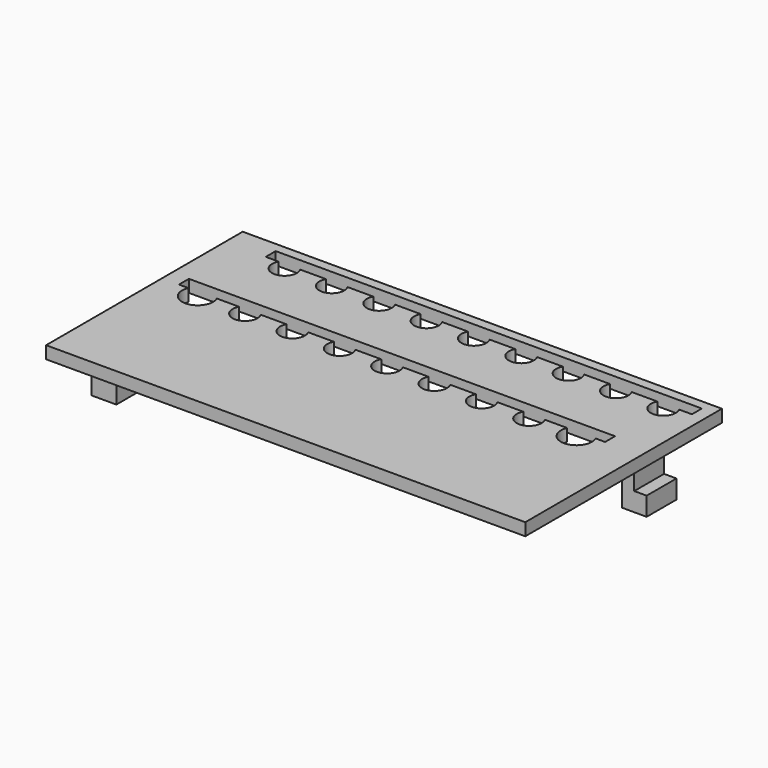
from build123d import *

# Parameters (mm, degrees)
F0_W          = 77.12
F0_H          = 39.56
F0_W_2        = 2
F0_H_2        = 6
F1_DEPTH      = 2
F2_DEPTH      = 8
F2_DEPTH_BACK = -2
F3_DEPTH      = 8
F3_DEPTH_BACK = -2
F4_W          = 6
F4_H          = 3
F5_DEPTH      = 4
F6_W          = 6
F6_H          = 3
F7_DEPTH      = 4


with BuildPart() as f1:
    # F0 (on Top) → F1 (new body)
    with BuildSketch(Plane.XY):
        with Locations((38.56, 19.78)):
            Rectangle(F0_W, F0_H)
        with Locations((4, 10.89)):
            Rectangle(F0_W_2, F0_H_2, mode=Mode.SUBTRACT)
        with BuildLine():
            ThreePointArc((15.892051, 23.32), (16.091852, 22.837638), (16.16, 22.32))
            ThreePointArc((16.16, 22.32), (13.642362, 20.388148), (12.427949, 23.32))
            Line((12.427949, 23.32), (8.831288, 23.32))
            ThreePointArc((8.831288, 23.32), (8.987266, 22.830774), (9.04, 22.32))
            ThreePointArc((9.04, 22.32), (6.029226, 19.872734), (4.248712, 23.32))
            Line((4.248712, 23.32), (2.73, 23.32))
            Line((2.73, 23.32), (2.73, 25.32))
            Line((2.73, 25.32), (71.31, 25.32))
            Line((71.31, 25.32), (71.31, 23.32))
            Line((71.31, 23.32), (69.791288, 23.32))
            ThreePointArc((69.791288, 23.32), (69.947266, 22.830774), (70, 22.32))
            ThreePointArc((70, 22.32), (66.989226, 19.872734), (65.208712, 23.32))
            Line((65.208712, 23.32), (61.612051, 23.32))
            ThreePointArc((61.612051, 23.32), (61.811852, 22.837638), (61.88, 22.32))
            ThreePointArc((61.88, 22.32), (59.362362, 20.388148), (58.147949, 23.32))
            Line((58.147949, 23.32), (53.992051, 23.32))
            ThreePointArc((53.992051, 23.32), (54.191852, 22.837638), (54.26, 22.32))
            ThreePointArc((54.26, 22.32), (51.742362, 20.388148), (50.527949, 23.32))
            Line((50.527949, 23.32), (46.372051, 23.32))
            ThreePointArc((46.372051, 23.32), (46.571852, 22.837638), (46.64, 22.32))
            ThreePointArc((46.64, 22.32), (44.122362, 20.388148), (42.907949, 23.32))
            Line((42.907949, 23.32), (38.752051, 23.32))
            ThreePointArc((38.752051, 23.32), (38.951852, 22.837638), (39.02, 22.32))
            ThreePointArc((39.02, 22.32), (36.502362, 20.388148), (35.287949, 23.32))
            Line((35.287949, 23.32), (31.132051, 23.32))
            ThreePointArc((31.132051, 23.32), (31.331852, 22.837638), (31.4, 22.32))
            ThreePointArc((31.4, 22.32), (28.882362, 20.388148), (27.667949, 23.32))
            Line((27.667949, 23.32), (23.512051, 23.32))
            ThreePointArc((23.512051, 23.32), (23.711852, 22.837638), (23.78, 22.32))
            ThreePointArc((23.78, 22.32), (21.262362, 20.388148), (20.047949, 23.32))
            Line((20.047949, 23.32), (15.892051, 23.32))
        make_face(mode=Mode.SUBTRACT)
        with Locations((73.12, 28.67)):
            Rectangle(F0_W_2, F0_H_2, mode=Mode.SUBTRACT)
        with BuildLine():
            ThreePointArc((12.082051, 36.02), (12.281852, 35.537638), (12.35, 35.02))
            ThreePointArc((12.35, 35.02), (9.832362, 33.088148), (8.617949, 36.02))
            Line((8.617949, 36.02), (6.54, 36.02))
            Line((6.54, 36.02), (6.54, 38.02))
            Line((6.54, 38.02), (75.12, 38.02))
            Line((75.12, 38.02), (75.12, 36.02))
            Line((75.12, 36.02), (73.042051, 36.02))
            ThreePointArc((73.042051, 36.02), (73.241852, 35.537638), (73.31, 35.02))
            ThreePointArc((73.31, 35.02), (70.792362, 33.088148), (69.577949, 36.02))
            Line((69.577949, 36.02), (65.422051, 36.02))
            ThreePointArc((65.422051, 36.02), (65.621852, 35.537638), (65.69, 35.02))
            ThreePointArc((65.69, 35.02), (63.172362, 33.088148), (61.957949, 36.02))
            Line((61.957949, 36.02), (57.802051, 36.02))
            ThreePointArc((57.802051, 36.02), (58.001852, 35.537638), (58.07, 35.02))
            ThreePointArc((58.07, 35.02), (55.552362, 33.088148), (54.337949, 36.02))
            Line((54.337949, 36.02), (50.182051, 36.02))
            ThreePointArc((50.182051, 36.02), (50.381852, 35.537638), (50.45, 35.02))
            ThreePointArc((50.45, 35.02), (47.932362, 33.088148), (46.717949, 36.02))
            Line((46.717949, 36.02), (42.562051, 36.02))
            ThreePointArc((42.562051, 36.02), (42.761852, 35.537638), (42.83, 35.02))
            ThreePointArc((42.83, 35.02), (40.312362, 33.088148), (39.097949, 36.02))
            Line((39.097949, 36.02), (34.942051, 36.02))
            ThreePointArc((34.942051, 36.02), (35.141852, 35.537638), (35.21, 35.02))
            ThreePointArc((35.21, 35.02), (32.692362, 33.088148), (31.477949, 36.02))
            Line((31.477949, 36.02), (27.322051, 36.02))
            ThreePointArc((27.322051, 36.02), (27.521852, 35.537638), (27.59, 35.02))
            ThreePointArc((27.59, 35.02), (25.072362, 33.088148), (23.857949, 36.02))
            Line((23.857949, 36.02), (19.702051, 36.02))
            ThreePointArc((19.702051, 36.02), (19.901852, 35.537638), (19.97, 35.02))
            ThreePointArc((19.97, 35.02), (17.452362, 33.088148), (16.237949, 36.02))
            Line((16.237949, 36.02), (12.082051, 36.02))
        make_face(mode=Mode.SUBTRACT)
    extrude(amount=F1_DEPTH)

    # F0 (on Top) → F2 (join, two sides)
    with BuildSketch(Plane.XY) as f2_sk:
        with Locations((73.12, 28.67)):
            Rectangle(F0_W_2, F0_H_2)
    extrude(amount=-F2_DEPTH)
    extrude(f2_sk.sketch, amount=-F2_DEPTH_BACK)

    # F0 (on Top) → F3 (join, two sides)
    with BuildSketch(Plane.XY) as f3_sk:
        with Locations((4, 10.89)):
            Rectangle(F0_W_2, F0_H_2)
    extrude(amount=-F3_DEPTH)
    extrude(f3_sk.sketch, amount=-F3_DEPTH_BACK)

    # F4 (on face) → F5 (join)
    with BuildSketch(Plane.YZ.offset(5)):
        with Locations((10.89, -6.5)):
            Rectangle(F4_W, F4_H)
    extrude(amount=-F5_DEPTH)

    # F6 (on face) → F7 (join)
    with BuildSketch(Plane(origin=(72.12, 0, 0), x_dir=(0, -1, 0), z_dir=(-1, 0, 0))):
        with Locations((-28.67, -6.5)):
            Rectangle(F6_W, F6_H)
    extrude(amount=-F7_DEPTH)


solid = f1.part
